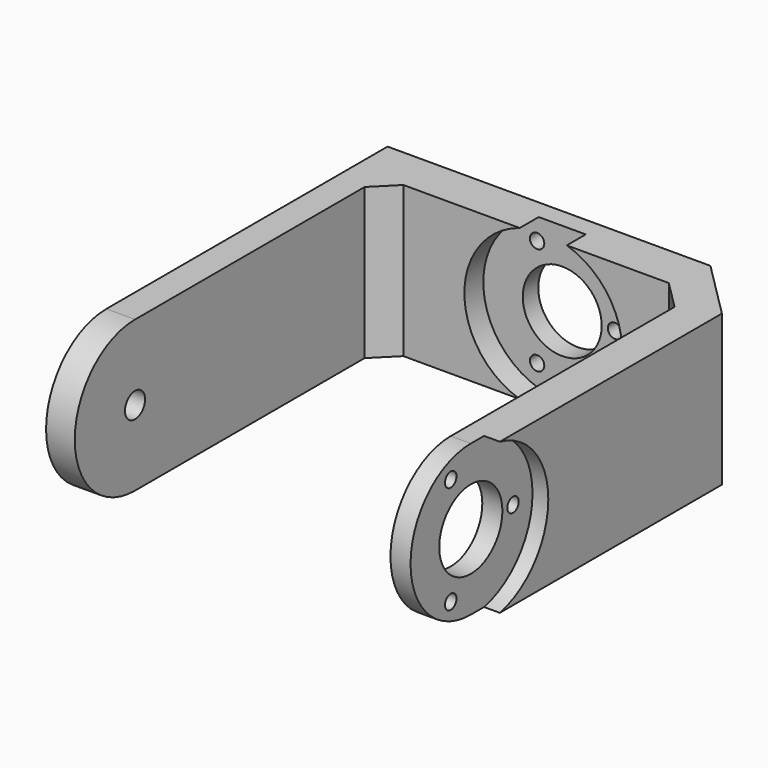
from build123d import *

# Parameters (mm, degrees)
CYLINDER026_R            = 1
CYLINDER026_DEPTH        = 20
CYLINDER026_ROLL_ANGLE   = 90
CYLINDER025_R            = 5.5
CYLINDER025_DEPTH        = 20
CYLINDER025_ROLL_ANGLE   = 90
CLONE004_PLACEMENT_ANGLE = 90
PAD001_DEPTH             = 26.5
POCKET_DEPTH             = 21.001
SKETCH003_R              = 10.75
POCKET001_DEPTH          = 2.2
SKETCH004_R              = 1.75
POCKET002_DEPTH          = 4
SKETCH005_R              = 11
POCKET003_DEPTH          = 3.3
POCKET004_DEPTH          = 21.001


with BuildPart() as servo_horn_small_drill_master:
    # Cylinder026 → Cylinder026 (new body)
    with BuildSketch(Plane.XY):
        Circle(CYLINDER026_R)
    extrude(amount=CYLINDER026_DEPTH)


with BuildPart() as servo_horn_small_drill_master_1:
    # Cylinder026 roll: moved
    add(servo_horn_small_drill_master.part.rotate(Axis((0, 0, 0), (1, 0, 0)), CYLINDER026_ROLL_ANGLE))


with BuildPart() as servo_horn_small_drill_master_2:
    # Cylinder026 placement: moved
    add(servo_horn_small_drill_master_1.part.moved(Location((-3.5, 10, 7.5))))


with BuildPart() as clone003:
    # Clone003 base: copy of servo-horn-small-drill-master
    add(servo_horn_small_drill_master_2.part)


with BuildPart() as clone003_1:
    # Clone003 placement: moved
    add(clone003.part.moved(Location((0, -4e-06, -15.000002))))


with BuildPart() as servo_shaft_drill:
    # Cylinder025 → Cylinder025 (new body)
    with BuildSketch(Plane.XY):
        Circle(CYLINDER025_R)
    extrude(amount=CYLINDER025_DEPTH)


with BuildPart() as servo_shaft_drill_1:
    # Cylinder025 roll: moved
    add(servo_shaft_drill.part.rotate(Axis((0, 0, 0), (1, 0, 0)), CYLINDER025_ROLL_ANGLE))


with BuildPart() as servo_shaft_drill_2:
    # Cylinder025 placement: moved
    add(servo_shaft_drill_1.part.moved(Location((0, 10, 0))))


with BuildPart() as servo_drills_block1_master:
    # Clone002 base: copy of servo-horn-small-drill-master
    add(servo_horn_small_drill_master_2.part)


with BuildPart() as servo_drills_block1_master_1:
    # Clone002 placement: moved
    add(servo_drills_block1_master.part.moved(Location((10.85, -2e-06, -7.500002))))

    # Fusion023: union Clone003, servo-horn-small-drill-master, servo-shaft-drill
    add(clone003_1.part)
    add(servo_horn_small_drill_master_2.part)
    add(servo_shaft_drill_2.part)


with BuildPart() as clone_of_servo_drills_block1_master:
    # Clone004 base: copy of servo-Drills-block1-master
    add(servo_drills_block1_master_1.part)


with BuildPart() as clone_of_servo_drills_block1_master_1:
    # Clone004 placement: moved
    add(clone_of_servo_drills_block1_master.part.moved(Location((22, -49, 7e-06))).rotate(Axis((22, -49, 7e-06), (0, 0, 1)), CLONE004_PLACEMENT_ANGLE))


with BuildPart() as servo_horn_drills:
    # Fusion024 base: copy of servo-Drills-block1-master
    add(servo_drills_block1_master_1.part)

    # Fusion024: union Clone of servo-Drills-block1-master
    add(clone_of_servo_drills_block1_master_1.part)


with BuildPart() as leg:
    # Sketch001 → Pad001 (new body, symmetric)
    with BuildSketch(Plane.YZ):
        with BuildLine():
            Line((-49, 10.5), (0, 10.5))
            Line((0, 10.5), (0, -10.5))
            Line((0, -10.5), (-49, -10.5))
            ThreePointArc((-49, 10.5), (-59.5, 0), (-49, -10.5))
        make_face()
    extrude(amount=PAD001_DEPTH, both=True)

    # Sketch002 → Pocket (cut, through all)
    with BuildSketch(Plane(origin=(0, 0, 10.5), x_dir=(0, -1, 0), z_dir=(0, 0, 1))):
        Polygon((64, 21.5), (10, 21.5), (6, 17.5), (6, -19.5), (9, -22.5), (64, -22.5), align=None)
    extrude(amount=-POCKET_DEPTH, mode=Mode.SUBTRACT)

    # Sketch003 → Pocket001 (cut)
    with BuildSketch(Plane.YZ.offset(26.5)):
        with Locations((-49, 0)):
            Circle(SKETCH003_R)
    extrude(amount=-POCKET001_DEPTH, mode=Mode.SUBTRACT)

    # Sketch004 → Pocket002 (cut)
    with BuildSketch(Plane(origin=(-26.5, 0, 0), x_dir=(0, 1, 0), z_dir=(-1, 0, 0))):
        with Locations((-49, 0)):
            Circle(SKETCH004_R)
    extrude(amount=-POCKET002_DEPTH, mode=Mode.SUBTRACT)

    # Sketch005 → Pocket003 (cut)
    with BuildSketch(Plane(origin=(0, -6, 0), x_dir=(0, 0, -1), z_dir=(0, -1, 0))):
        Circle(SKETCH005_R)
    extrude(amount=-POCKET003_DEPTH, mode=Mode.SUBTRACT)

    # Sketch006 → Pocket004 (cut, through all)
    with BuildSketch(Plane(origin=(0, 0, 10.5), x_dir=(0, -1, 0), z_dir=(0, 0, 1))):
        Polygon((0, 18.5), (8, 26.5), (0, 26.5), align=None)
    extrude(amount=-POCKET004_DEPTH, mode=Mode.SUBTRACT)

    # Cut034: cut Servo-horn-drills
    add(servo_horn_drills.part, mode=Mode.SUBTRACT)


solid = leg.part
